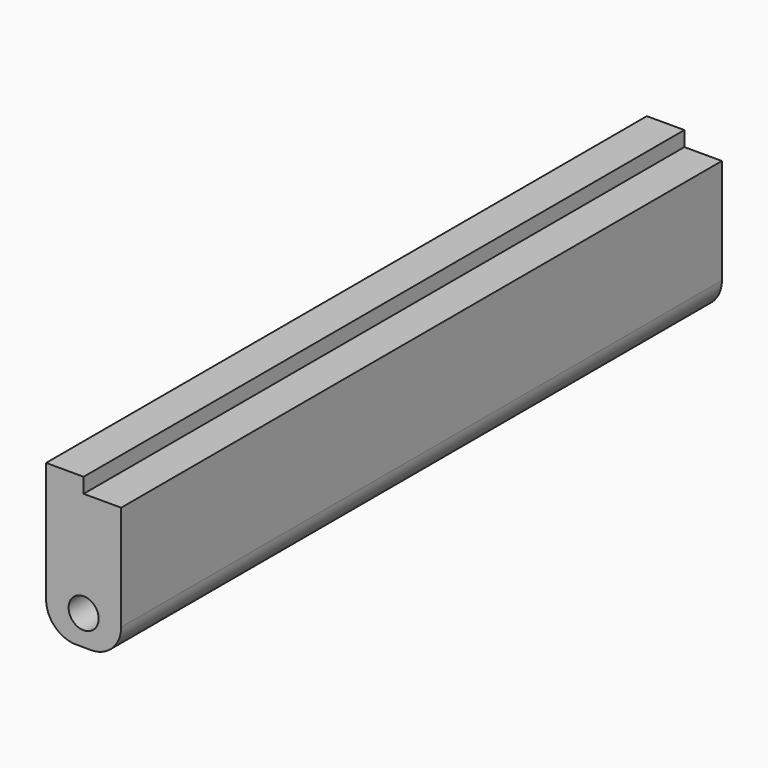
from build123d import *

# Parameters (mm, degrees)
CYLINDER003_R     = 2
CYLINDER003_DEPTH = 10
CYLINDER002_R     = 2
CYLINDER002_DEPTH = 10
BOX003_W          = 5
BOX003_H          = 100
BOX003_DEPTH      = 2
BOX_W             = 10
BOX_H             = 100
BOX_DEPTH         = 20
FILLET_R          = 4
FILLET001_R       = 4


with BuildPart() as m3threadhole001:
    # Cylinder003 → Cylinder003 (new body)
    with BuildSketch(Plane(origin=(20, 105, 4), x_dir=(1, 0, 0), z_dir=(0, -1, 0))):
        Circle(CYLINDER003_R)
    extrude(amount=CYLINDER003_DEPTH)


with BuildPart() as fusion001:
    # Cylinder002 → Cylinder002 (new body)
    with BuildSketch(Plane(origin=(20, 15, 4), x_dir=(1, 0, 0), z_dir=(0, -1, 0))):
        Circle(CYLINDER002_R)
    extrude(amount=CYLINDER002_DEPTH)

    # Fusion001: union M3ThreadHole001
    add(m3threadhole001.part)


with BuildPart() as clampstep:
    # Box003 → Box003 (new body)
    with BuildSketch(Plane(origin=(20, 5, 18), x_dir=(1, 0, 0), z_dir=(0, 0, 1))):
        with Locations((2.5, 50)):
            Rectangle(BOX003_W, BOX003_H)
    extrude(amount=BOX003_DEPTH)


with BuildPart() as obj1:
    # Box → Box (new body)
    with BuildSketch(Plane(origin=(15, 5, 0), x_dir=(1, 0, 0), z_dir=(0, 0, 1))):
        with Locations((5, 50)):
            Rectangle(BOX_W, BOX_H)
    extrude(amount=BOX_DEPTH)

    # Cut002: cut ClampStep
    add(clampstep.part, mode=Mode.SUBTRACT)

    # Cut003: cut Fusion001
    add(fusion001.part, mode=Mode.SUBTRACT)

    # Fillet
    fillet_edges = [obj1.edges().sort_by_distance(p)[0] for p in [
        (15, 55, 0),
    ]]
    fillet(fillet_edges, radius=FILLET_R)

    # Fillet001
    fillet001_edges = [obj1.edges().sort_by_distance(p)[0] for p in [
        (25, 55, 0),
    ]]
    fillet(fillet001_edges, radius=FILLET001_R)


solid = obj1.part
